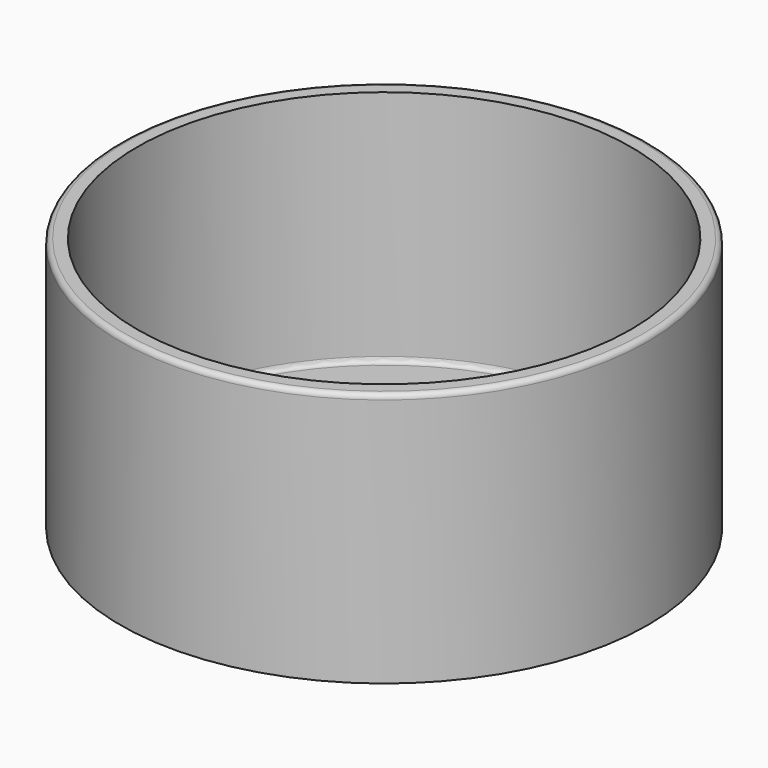
from build123d import *

# Parameters (mm, degrees)
F0_R     = 39.497
F1_DEPTH = 38.1
F2_R     = 36.957
F3_DEPTH = 35.56
F4_R     = 0.762
F5_R     = 0.762
F7_DEPTH = 25.4
F9_DEPTH = 25.4


with BuildPart() as f1:
    # F0 (on Top) → F1 (new body)
    with BuildSketch(Plane.XY):
        Circle(F0_R)
    extrude(amount=F1_DEPTH)

    # F2 (on face) → F3 (cut)
    with BuildSketch(Plane.XY.offset(38.1)):
        Circle(F2_R)
    extrude(amount=-F3_DEPTH, mode=Mode.SUBTRACT)

    # F4
    f4_edges = [f1.edges().sort_by_distance(p)[0] for p in [
        (-36.957, 0, 2.54),
    ]]
    fillet(f4_edges, radius=F4_R)

    # F5
    f5_edges = [f1.edges().sort_by_distance(p)[0] for p in [
        (-39.497, 0, 38.1),
    ]]
    fillet(f5_edges, radius=F5_R)

    # F6 (on face) → F7 (cut)
    with BuildSketch(Plane(origin=(0, 0, 0), x_dir=(1, 0, 0), z_dir=(0, 0, -1))):
        with BuildLine():
            Line((0, -25.019), (0, -30.353))
            Line((0, -30.353), (0, -35.687))
            ThreePointArc((0, -35.687), (3.771708, -34.124708), (5.334, -30.353))
            ThreePointArc((5.334, -30.353), (3.771708, -26.581292), (0, -25.019))
        make_face()
        with BuildLine():
            Line((0, -35.687), (0, -30.353))
            Line((0, -30.353), (0, -25.019))
            ThreePointArc((0, -25.019), (-5.334, -30.353), (0, -35.687))
        make_face()
    extrude(amount=-F7_DEPTH, mode=Mode.SUBTRACT)

    # F8 (on face) → F9 (cut)
    with BuildSketch(Plane(origin=(0, 0, 0), x_dir=(1, 0, 0), z_dir=(0, 0, -1))):
        with BuildLine():
            ThreePointArc((14.859, 29.21), (9.525, 34.544), (4.191, 29.21))
            ThreePointArc((4.191, 29.21), (9.525, 23.876), (14.859, 29.21))
        make_face()
        with BuildLine():
            ThreePointArc((-4.191, 29.21), (-13.841951, 32.342969), (-7.87135, 24.138807))
            Line((-7.87135, 24.138807), (-9.525, 29.21))
            Line((-9.525, 29.21), (-4.191, 29.21))
        make_face()
        with BuildLine():
            Line((-9.525, 29.21), (-7.87135, 24.138807))
            ThreePointArc((-7.87135, 24.138807), (-5.208049, 26.077031), (-4.191, 29.21))
            Line((-4.191, 29.21), (-9.525, 29.21))
        make_face()
    extrude(amount=-F9_DEPTH, mode=Mode.SUBTRACT)


solid = f1.part
